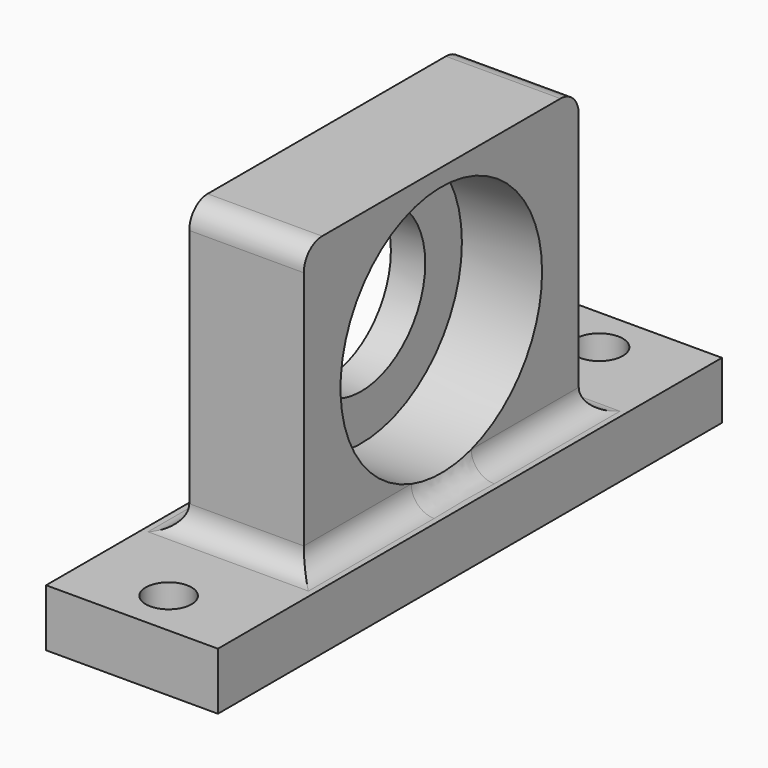
from build123d import *

# Parameters (mm, degrees)
F0_W      = 15
F0_H      = 55
F1_DEPTH  = 5
F2_W      = 10
F2_H      = 30
F3_DEPTH  = 25
F4_R      = 11
F5_DEPTH  = 7
F6_R      = 2
F6_R_2    = 2.05
F7_DEPTH  = 25
F8_R      = 2
F9_R      = 7
F10_DEPTH = 5.501


with BuildPart() as f1:
    # F0 (on Top) → F1 (new body)
    with BuildSketch(Plane.XY):
        Rectangle(F0_W, F0_H)
    extrude(amount=F1_DEPTH)

    # F2 (on face) → F3 (join)
    with BuildSketch(Plane.XY.offset(5)):
        Rectangle(F2_W, F2_H)
    extrude(amount=F3_DEPTH)

    # F4 (on face) → F5 (cut)
    with BuildSketch(Plane.YZ.offset(5)):
        with Locations((0, 17.5)):
            Circle(F4_R)
    extrude(amount=-F5_DEPTH, mode=Mode.SUBTRACT)

    # F6 (on face) → F7 (cut)
    with BuildSketch(Plane.XY.offset(5)):
        with Locations((0, -23.5)):
            Circle(F6_R)
        with Locations((0, 23.5)):
            Circle(F6_R_2)
    extrude(amount=-F7_DEPTH, mode=Mode.SUBTRACT)

    # F8
    f8_edges = [f1.edges().sort_by_distance(p)[0] for p in [
        (0, -15, 30),
        (0, -15, 5),
        (5, 0, 5),
        (0, 15, 30),
        (0, 15, 5),
        (-5, 0, 5),
    ]]
    fillet(f8_edges, radius=F8_R)

    # F9 (on face) → F10 (cut, through all)
    with BuildSketch(Plane.YZ.offset(-2)):
        with Locations((0, 17.5)):
            Circle(F9_R)
    extrude(amount=-F10_DEPTH, mode=Mode.SUBTRACT)


solid = f1.part
